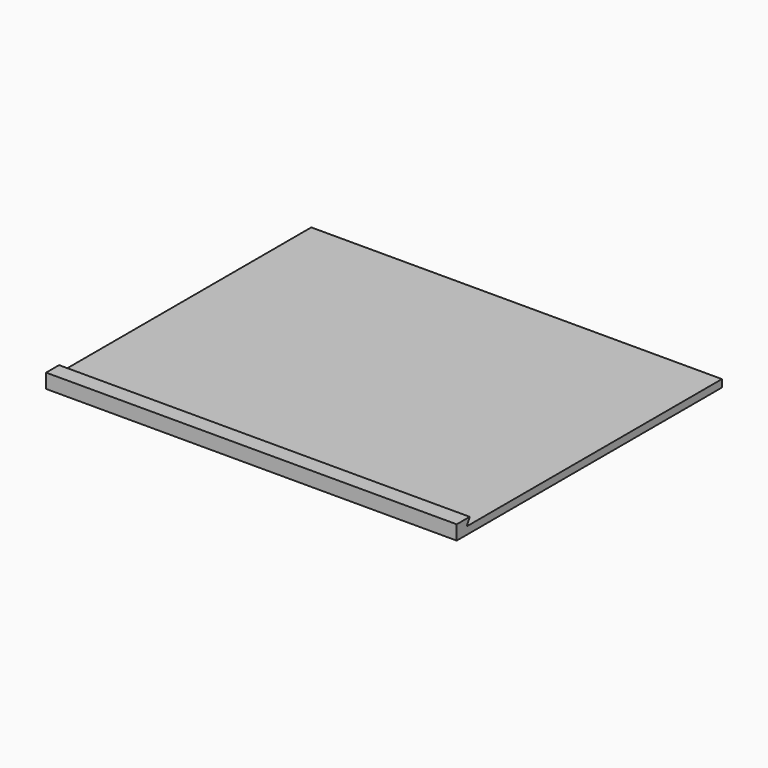
from build123d import *

# Parameters (mm, degrees)
SKETCH005_W       = 220
SKETCH005_H       = 160
PAD004_DEPTH      = 4
PAD004_FACE3_W    = 220
PAD004_FACE3_H    = 4
PAD005_DEPTH      = 8.8
PAD005_FACE8_W    = 8.8
PAD005_FACE8_H    = 220
PAD006_DEPTH      = 3.7
POCKET002_DEPTH   = 220.001
POCKET002_FACE1_W = 220
POCKET002_FACE1_H = 4
PAD007_DEPTH      = 8.8


with BuildPart() as part:
    # Sketch005 → Pad004 (new body)
    with BuildSketch(Plane.XY):
        with Locations((110, 80)):
            Rectangle(SKETCH005_W, SKETCH005_H)
    extrude(amount=-PAD004_DEPTH)

    # Pad004 Face3 → Pad005 (add)
    with BuildSketch(Plane(origin=(110, 0, -2), x_dir=(-1, 0, 0), z_dir=(0, -1, 0))):
        Rectangle(PAD004_FACE3_W, PAD004_FACE3_H)
    extrude(amount=PAD005_DEPTH)

    # Pad005 Face8 → Pad006 (add)
    with BuildSketch(Plane(origin=(110, -4.4, 0), x_dir=(0, 1, 0), z_dir=(0, 0, 1))):
        Rectangle(PAD005_FACE8_W, PAD005_FACE8_H)
    extrude(amount=PAD006_DEPTH)

    # Sketch006 (on Face10 of Pad006) → Pocket002 (cut, through all)
    with BuildSketch(Plane(origin=(0, 0, 0), x_dir=(0, -1, 0), z_dir=(-1, 0, 0))):
        Polygon((0, 0), (2.1, 0), (0.1, 3.7), (0, 3.7), align=None)
    extrude(amount=-POCKET002_DEPTH, mode=Mode.SUBTRACT)

    # Pocket002 Face1 → Pad007 (add)
    with BuildSketch(Plane(origin=(110, 160, -2), x_dir=(1, 0, 0), z_dir=(0, 1, 0))):
        Rectangle(POCKET002_FACE1_W, POCKET002_FACE1_H)
    extrude(amount=PAD007_DEPTH)


solid = part.part
